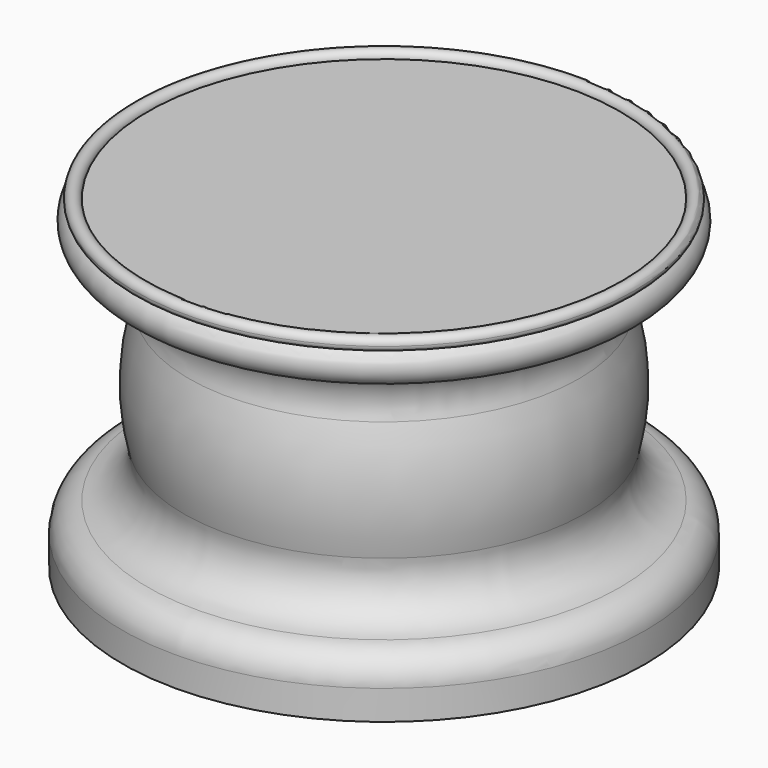
from build123d import *

# Parameters (mm, degrees)
F2_T = -1.5
F3_R = 1.5


with BuildPart() as f1:
    # F0 (on Front) → F1 (revolve)
    with BuildSketch(Plane.XZ):
        with BuildLine():
            Line((0, 69.85), (0, 0))
            Line((0, 0), (56.297851, 0))
            Line((56.297851, 0), (56.297851, 6.35))
            ThreePointArc((56.297851, 6.35), (54.732414, 10.549669), (50.8, 12.7))
            ThreePointArc((50.8, 12.7), (44.419677, 16.714952), (43.12198, 24.140875))
            ThreePointArc((43.12198, 24.140875), (44.408022, 36.856337), (42.022915, 49.412138))
            ThreePointArc((42.022915, 49.412138), (43.240735, 57.827833), (50.8, 61.722))
            ThreePointArc((50.8, 61.722), (54.864, 65.786), (50.8, 69.85))
            Line((50.8, 69.85), (0, 69.85))
        make_face()
    revolve(axis=Axis((0, 0, 34.925), (0, 0, 1)))

    # F2
    f2_openings = [f1.faces().sort_by_distance(p)[0] for p in [
        (0, 0, 0),
    ]]
    offset(amount=F2_T, openings=f2_openings)

    # F3 (on Front) → F4 (revolve)
    with BuildSketch(Plane.XZ):
        with Locations((52.3, 69.85)):
            Circle(F3_R)
    revolve(axis=Axis((0, 0, 34.925), (0, 0, -1)))


solid = f1.part
